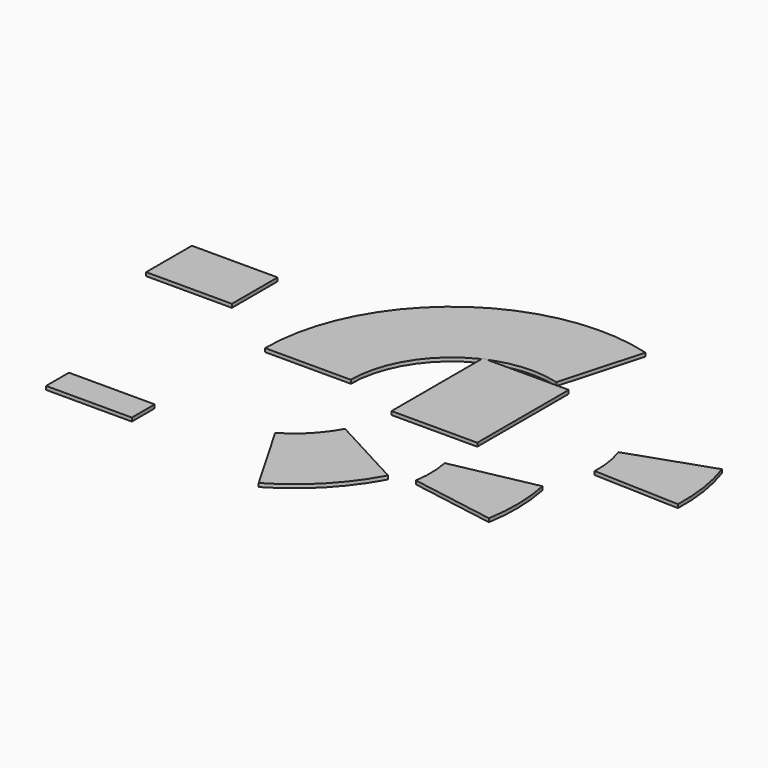
from build123d import *

# Parameters (mm, degrees)
F1_DEPTH  = 25
F2_W      = 600
F2_H      = 400
F3_DEPTH  = 25
F5_DEPTH  = 25
F6_W      = 600
F6_H      = 800
F7_DEPTH  = 25
F8_W      = 600
F8_H      = 200
F9_DEPTH  = 25
F11_DEPTH = 25
F13_DEPTH = 25


with BuildPart() as f1:
    # F0 (on Top) → F1 (new body)
    with BuildSketch(Plane.XY):
        with BuildLine():
            Line((189.746486, 678.985472), (351.232857, 1256.845448))
            ThreePointArc((351.232857, 1256.845448), (-788.880892, 1039.563341), (-1305, 0))
            Line((-1305, 0), (-705, 0))
            ThreePointArc((-705, 0), (-426.177033, 561.603184), (189.746486, 678.985472))
        make_face()
    extrude(amount=F1_DEPTH)


with BuildPart() as f3:
    # F2 (on Top) → F3 (new body)
    with BuildSketch(Plane.XY):
        with Locations((-2073.726237, 495.7957)):
            Rectangle(F2_W, F2_H)
    extrude(amount=F3_DEPTH)


with BuildPart() as f5:
    # F4 (on Top) → F5 (new body)
    with BuildSketch(Plane.XY):
        with BuildLine():
            Line((1010.704266, -11.058548), (1610.308291, -32.853329))
            ThreePointArc((1610.308291, -32.853329), (1596.904862, 206.975152), (1539.772181, 440.284409))
            Line((1539.772181, 440.284409), (972.598551, 244.544598))
            ThreePointArc((972.598551, 244.544598), (1003.463333, 118.503965), (1010.704266, -11.058548))
        make_face()
    extrude(amount=F5_DEPTH)


with BuildPart() as f7:
    # F6 (on Top) → F7 (new body)
    with BuildSketch(Plane.XY):
        with Locations((0, 250)):
            Rectangle(F6_W, F6_H)
    extrude(amount=F7_DEPTH)


with BuildPart() as f9:
    # F8 (on Top) → F9 (new body)
    with BuildSketch(Plane.XY):
        with Locations((-1659.771848, -996.74437)):
            Rectangle(F8_W, F8_H)
    extrude(amount=F9_DEPTH)


with BuildPart() as f11:
    # F10 (on Top) → F11 (new body)
    with BuildSketch(Plane.XY):
        with BuildLine():
            Line((316.504749, -707.92033), (908.088075, -808.066066))
            ThreePointArc((908.088075, -808.066066), (926.213896, -568.548202), (900.133299, -329.76555))
            Line((900.133299, -329.76555), (312.207341, -449.528098))
            ThreePointArc((312.207341, -449.528098), (326.296859, -578.525623), (316.504749, -707.92033))
        make_face()
    extrude(amount=F11_DEPTH)


with BuildPart() as f13:
    # F12 (on Top) → F13 (new body)
    with BuildSketch(Plane.XY):
        with BuildLine():
            Line((-634.908229, -749.064059), (-334.661729, -1268.536906))
            ThreePointArc((-334.661729, -1268.536906), (-51.039558, -1047.361741), (161.435032, -757.164329))
            Line((161.435032, -757.164329), (-366.901933, -472.80531))
            ThreePointArc((-366.901933, -472.80531), (-481.687056, -629.578625), (-634.908229, -749.064059))
        make_face()
    extrude(amount=F13_DEPTH)


solid = Compound([f1.part, f3.part, f5.part, f7.part, f9.part, f11.part, f13.part])
